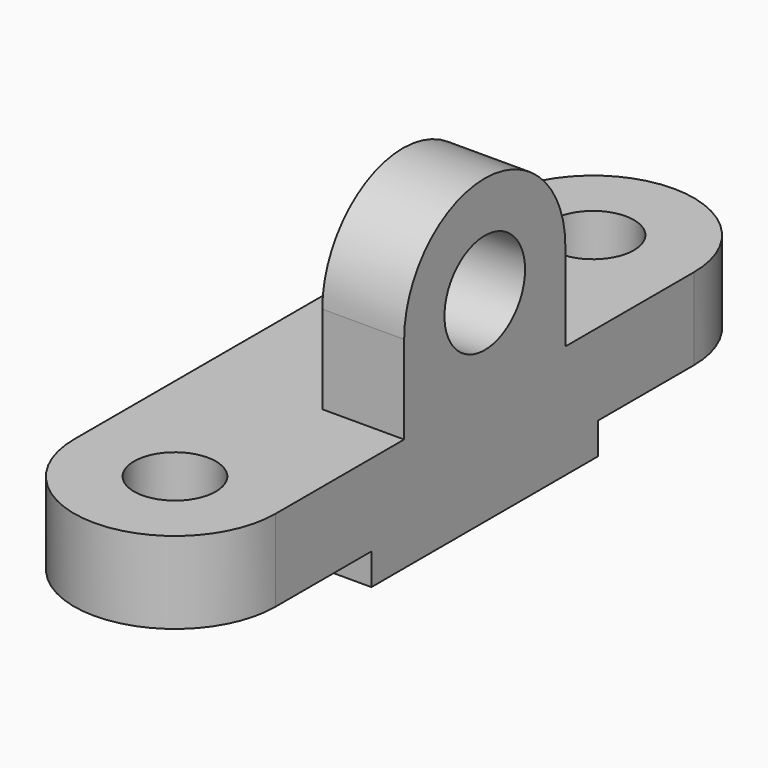
from build123d import *

# Parameters (mm, degrees)
F0_W     = 32
F0_H     = 45
F0_R     = 6.5
F1_DEPTH = 13
F2_DEPTH = 5
F3_R     = 8
F4_DEPTH = 13


with BuildPart() as f1:
    # F0 (on Top) → F1 (new body)
    with BuildSketch(Plane.XY):
        with Locations((0, 41.5)):
            Rectangle(F0_W, F0_H)
        with BuildLine():
            Line((-16, 19), (-16, 0))
            ThreePointArc((-16, 0), (0, -16), (16, 0))
            Line((16, 0), (16, 19))
            Line((16, 19), (-16, 19))
        make_face()
        Circle(F0_R, mode=Mode.SUBTRACT)
        with BuildLine():
            Line((-16, 83), (-16, 64))
            Line((-16, 64), (16, 64))
            Line((16, 64), (16, 83))
            ThreePointArc((16, 83), (0, 99), (-16, 83))
        make_face()
        with Locations((0, 83)):
            Circle(F0_R, mode=Mode.SUBTRACT)
    extrude(amount=F1_DEPTH)

    # F0 (on Top) → F2 (join)
    with BuildSketch(Plane.XY):
        with Locations((0, 41.5)):
            Rectangle(F0_W, F0_H)
    extrude(amount=-F2_DEPTH)

    # F3 (on face) → F4 (join)
    with BuildSketch(Plane.YZ.offset(16)):
        with BuildLine():
            Line((57.5, 13), (57.5, 27))
            ThreePointArc((57.5, 27), (41.5, 43), (25.5, 27))
            Line((25.5, 27), (25.5, 13))
            Line((25.5, 13), (57.5, 13))
        make_face()
        with Locations((41.5, 27)):
            Circle(F3_R, mode=Mode.SUBTRACT)
    extrude(amount=-F4_DEPTH)


solid = f1.part
